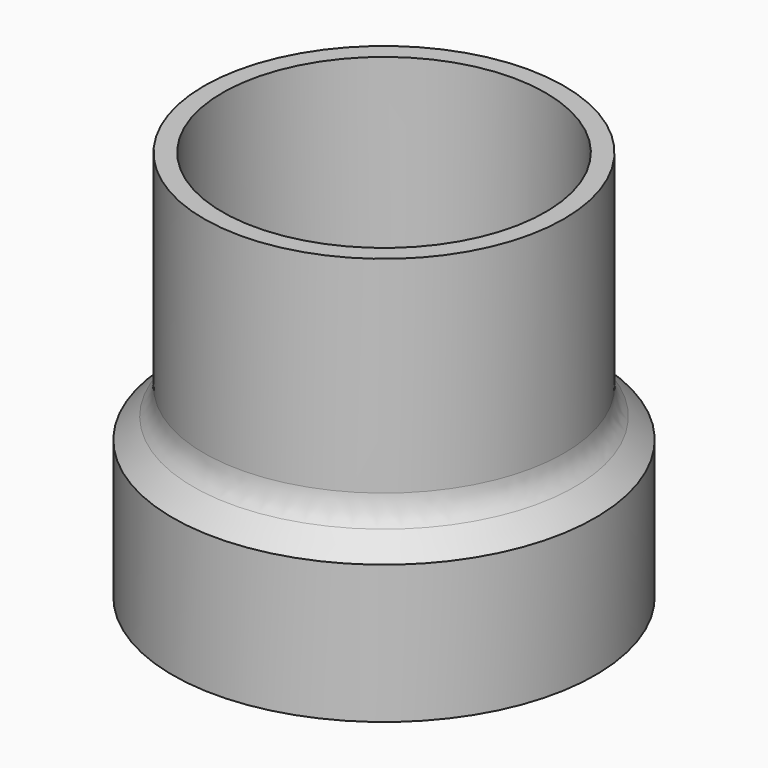
from build123d import *

# Parameters (mm, degrees)
F2_R = 5.08


with BuildPart() as f1:
    # F0 (on Right) → F1 (revolve)
    with BuildSketch(Plane.YZ):
        Polygon((26.543, 0), (29.083, 0), (29.083, 19.05), (24.765, 23.368), (24.765, 53.848), (22.225, 53.848), (22.225, 22.315898), (26.543, 17.997898), align=None)
    revolve(axis=Axis((0, 0, 27.000025), (0, 0, 1)))

    # F2
    f2_edges = [f1.edges().sort_by_distance(p)[0] for p in [
        (0, -26.543, 17.997898),
        (0, -22.225, 22.315898),
        (0, -24.765, 23.368),
    ]]
    fillet(f2_edges, radius=F2_R)


solid = f1.part
